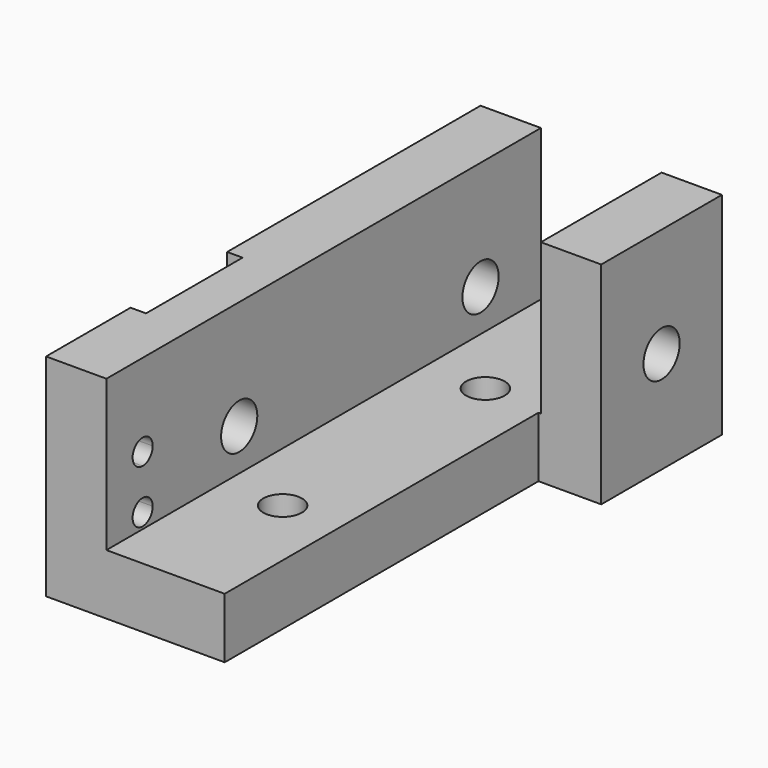
from build123d import *

# Parameters (mm, degrees)
F1_DEPTH      = 28.575
F2_W          = 12.7
F2_H          = 38.1
F3_DEPTH      = 25.4
F3_DEPTH_BACK = 25.4
F4_R          = 1.19126
F5_DEPTH      = 25.4
F5_DEPTH_BACK = 25.4
F6_W          = 6.35
F6_H          = 25.4
F7_DEPTH      = 0.8128
F8_R          = 1.016
F9_DEPTH      = 25.4
F9_DEPTH_BACK = 25.4


with BuildPart() as f1:
    # F0 (on Front) → F1 (new body)
    with BuildSketch(Plane.XZ):
        Polygon((0, 11.1125), (0, 0), (12.7, 0), (12.7, 11.1125), (9.525, 11.1125), (9.525, 3.175), (3.175, 3.175), (3.175, 11.1125), align=None)
    extrude(amount=-F1_DEPTH)

    # F2 (on Top) → F3 (cut, two sides)
    with BuildSketch(Plane.XY) as f3_sk:
        with Locations((15.748, 1.5875)):
            Rectangle(F2_W, F2_H)
    extrude(amount=F3_DEPTH, mode=Mode.SUBTRACT)
    extrude(f3_sk.sketch, amount=-F3_DEPTH_BACK, mode=Mode.SUBTRACT)

    # F4 (on Right) → F5 (cut, two sides)
    with BuildSketch(Plane.YZ) as f5_sk:
        with Locations((8.73252, 5.36321)):
            Circle(F4_R)
        with Locations((24.60752, 5.36321)):
            Circle(F4_R)
        with BuildLine():
            ThreePointArc((2.38252, 4.62661), (1.9155466817, 3.4992366817), (3.04292, 3.96621))
            ThreePointArc((3.04292, 3.96621), (2.8494933183, 4.4331833183), (2.38252, 4.62661))
        make_face()
        with BuildLine():
            ThreePointArc((3.04292, 6.76021), (1.9155466817, 7.2271833183), (2.38252, 6.09981))
            ThreePointArc((2.38252, 6.09981), (2.8494933183, 6.2932366817), (3.04292, 6.76021))
        make_face()
    extrude(amount=F5_DEPTH, mode=Mode.SUBTRACT)
    extrude(f5_sk.sketch, amount=-F5_DEPTH_BACK, mode=Mode.SUBTRACT)

    # F6 (on Right) → F7 (cut)
    with BuildSketch(Plane.YZ):
        with Locations((8.73252, 10.0369287327)):
            Rectangle(F6_W, F6_H)
    extrude(amount=F7_DEPTH, mode=Mode.SUBTRACT)

    # F8 (on Top) → F9 (cut, two sides)
    with BuildSketch(Plane.XY) as f9_sk:
        with Locations((6.35, 20.955)):
            Circle(F8_R)
        with Locations((6.35, 7.62)):
            Circle(F8_R)
    extrude(amount=-F9_DEPTH, mode=Mode.SUBTRACT)
    extrude(f9_sk.sketch, amount=F9_DEPTH_BACK, mode=Mode.SUBTRACT)


solid = f1.part
